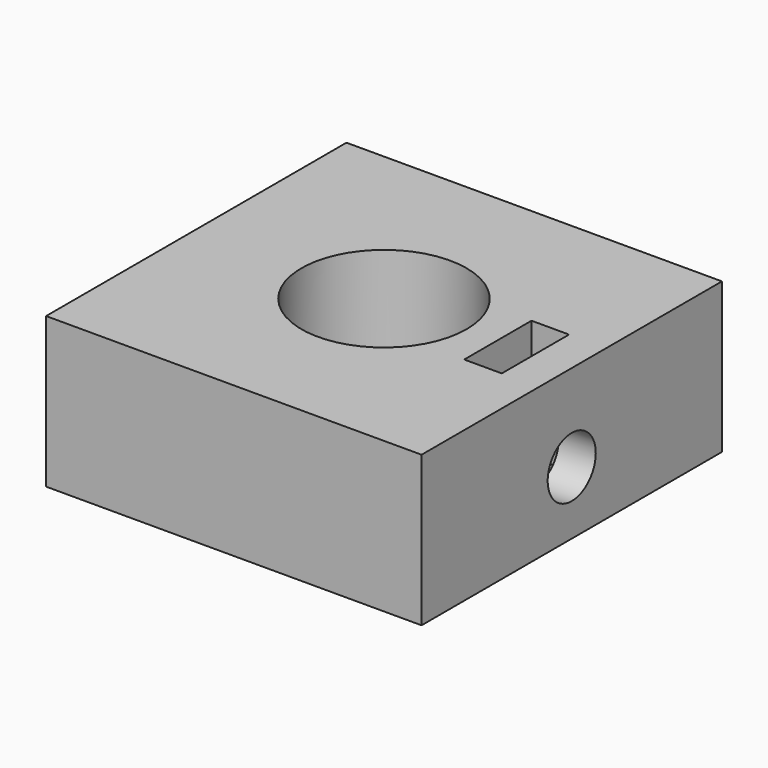
from build123d import *

# Parameters (mm, degrees)
SKETCH_W        = 25
SKETCH_H        = 25
SKETCH_R        = 5.5
PAD_DEPTH       = 10
SKETCH001_R     = 2
POCKET_DEPTH    = 8
SKETCH002_W     = 2.5
SKETCH002_H     = 5.6
POCKET001_DEPTH = 8


with BuildPart() as part:
    # Sketch → Pad (new body)
    with BuildSketch(Plane.XY):
        Rectangle(SKETCH_W, SKETCH_H)
        Circle(SKETCH_R, mode=Mode.SUBTRACT)
    extrude(amount=PAD_DEPTH)

    # Sketch001 (on Face2 of Pad) → Pocket (cut)
    with BuildSketch(Plane.YZ.offset(12.5)):
        with Locations((0, 4.2)):
            Circle(SKETCH001_R)
    extrude(amount=-POCKET_DEPTH, mode=Mode.SUBTRACT)

    # Sketch002 (on Face5 of Pocket) → Pocket001 (cut)
    with BuildSketch(Plane.XY.offset(10)):
        with Locations((8.785911, 0.057076)):
            Rectangle(SKETCH002_W, SKETCH002_H)
    extrude(amount=-POCKET001_DEPTH, mode=Mode.SUBTRACT)


solid = part.part
